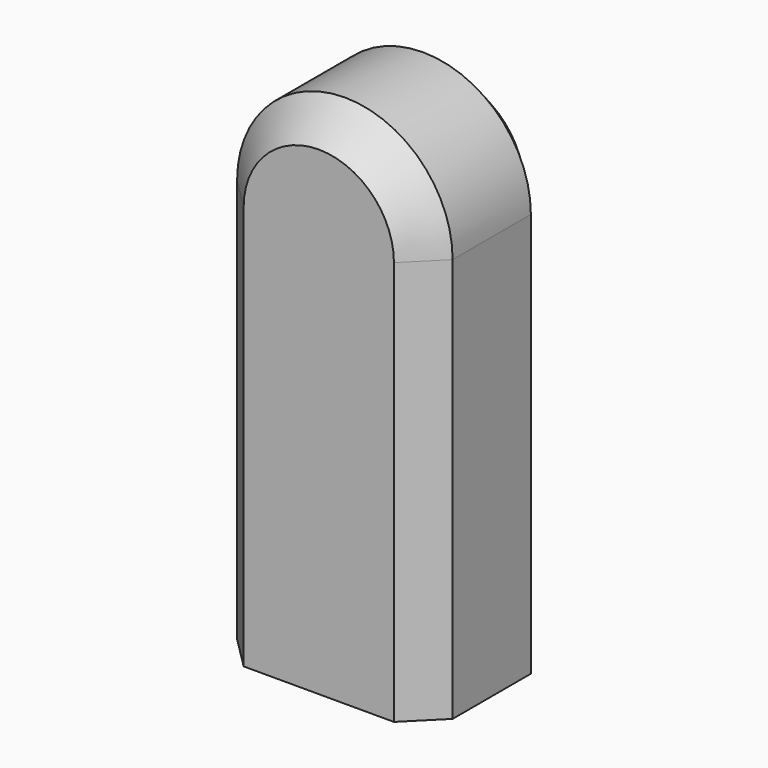
from build123d import *

# Parameters (mm, degrees)
F1_DEPTH = 12.5
F2_SIZE  = 5


with BuildPart() as f1:
    # F0 (on Front) → F1 (new body, symmetric)
    with BuildSketch(Plane.XZ):
        with BuildLine():
            Line((0, 62.005542), (0, 0))
            Line((0, 0), (33.04759, 0))
            Line((33.04759, 0), (33.04759, 62.005542))
            ThreePointArc((33.04759, 62.005542), (16.523795, 78.529337), (0, 62.005542))
        make_face()
    extrude(amount=F1_DEPTH, both=True)

    # F2
    f2_edges = [f1.edges().sort_by_distance(p)[0] for p in [
        (16.523795, -12.5, 78.529337),
        (16.523795, 12.5, 78.529337),
    ]]
    chamfer(f2_edges, length=F2_SIZE)


solid = f1.part
